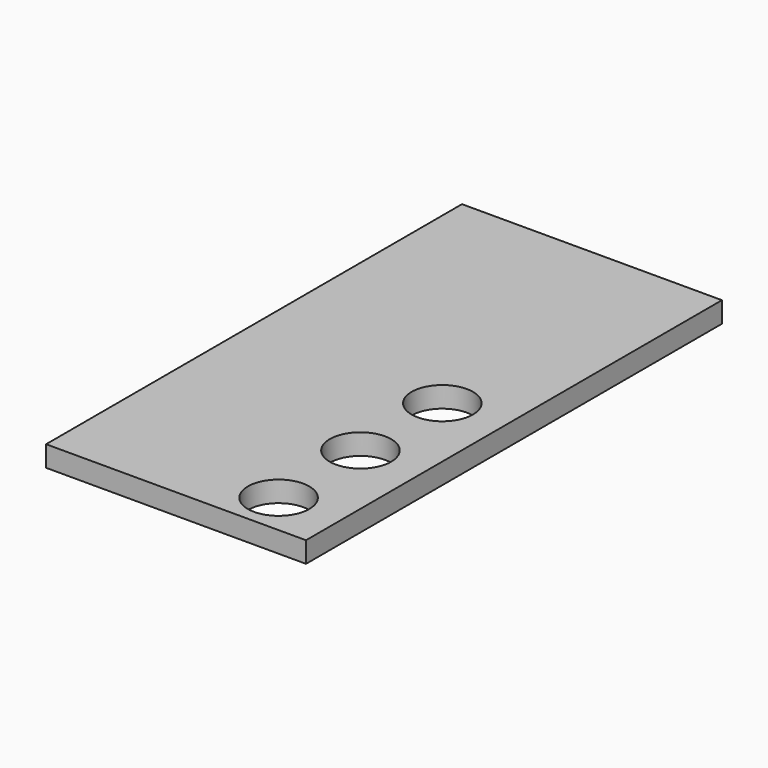
from build123d import *

# Parameters (mm, degrees)
F0_W     = 635
F0_H     = 1270
F1_DEPTH = 50.8
F2_R     = 75
F3_DEPTH = 347


with BuildPart() as f1:
    # F0 (on Top) → F1 (new body)
    with BuildSketch(Plane.XY):
        with Locations((136.374186, 280.478615)):
            Rectangle(F0_W, F0_H)
    extrude(amount=F1_DEPTH)

    # F2 (on face) → F3 (cut)
    with BuildSketch(Plane(origin=(0, 0, 0), x_dir=(1, 0, 0), z_dir=(0, 0, -1))):
        with Locations((303.242054, 250)):
            Circle(F2_R)
        with Locations((303.242054, 0)):
            Circle(F2_R)
        with Locations((303.242054, -250)):
            Circle(F2_R)
    extrude(amount=-F3_DEPTH, mode=Mode.SUBTRACT)


solid = f1.part
